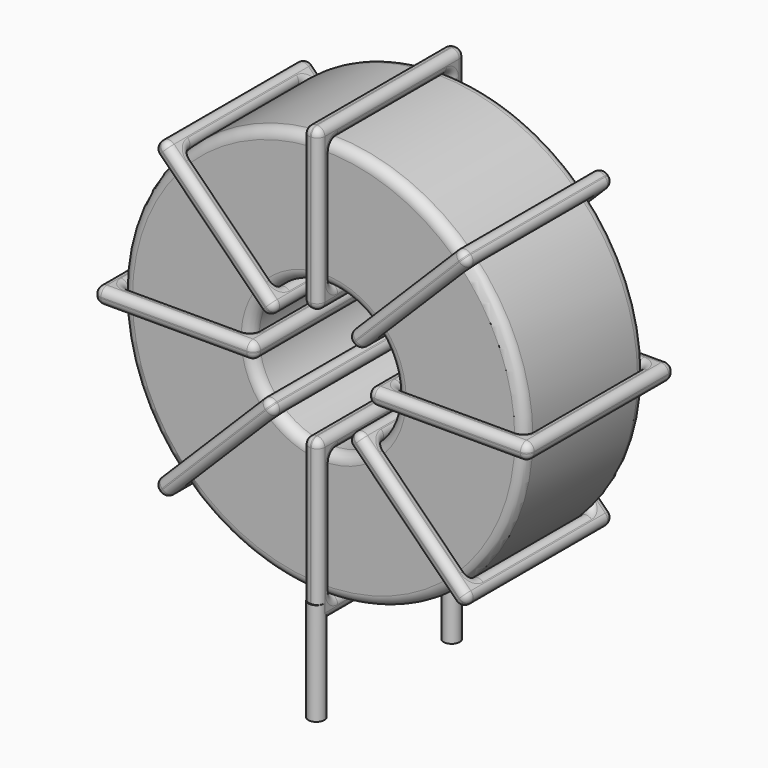
from build123d import *

# Parameters (mm, degrees)
SKETCH001_R       = 0.4
PAD001_DEPTH      = 0.8
PAD001_DEPTH_BACK = 4.3
SKETCH_R          = 10
SKETCH_R_2        = 3.6
PAD_DEPTH         = 3.75
FILLET_R          = 0.5
SKETCH003_W       = 8
SKETCH003_H       = 9.1
SKETCH003_W_2     = 6.4
SKETCH003_H_2     = 7.5
PAD002_DEPTH      = 0.4
FILLET001_R       = 0.376
SKETCH004_W       = 8
SKETCH004_H       = 9.1
SKETCH004_W_2     = 6.4
SKETCH004_H_2     = 7.5
PAD003_DEPTH      = 0.4
FILLET002_R       = 0.376
SKETCH005_W       = 8
SKETCH005_H       = 9.1
SKETCH005_W_2     = 6.4
SKETCH005_H_2     = 7.5
PAD004_DEPTH      = 0.4
FILLET003_R       = 0.376
SKETCH006_W       = 8
SKETCH006_H       = 9.1
SKETCH006_W_2     = 6.4
SKETCH006_H_2     = 7.5
PAD005_DEPTH      = 0.4
FILLET004_R       = 0.376


with BuildPart() as pad001:
    # Sketch001 → Pad001 (new body, two sides)
    with BuildSketch(Plane.XY.offset(1.3)) as pad001_sk:
        Circle(SKETCH001_R)
        with Locations((0, -8.4)):
            Circle(SKETCH001_R)
    extrude(amount=PAD001_DEPTH)
    extrude(pad001_sk.sketch, amount=-PAD001_DEPTH_BACK)


with BuildPart() as fillet_body:
    # Sketch → Pad (new body, symmetric)
    with BuildSketch(Plane.XZ.offset(4.2)):
        with Locations((0, 12.1)):
            Circle(SKETCH_R)
        with Locations((0, 12.1)):
            Circle(SKETCH_R_2, mode=Mode.SUBTRACT)
    extrude(amount=PAD_DEPTH, both=True)

    # Fillet
    fillet_edges = [fillet_body.edges().sort_by_distance(p)[0] for p in [
        (-3.6, -7.95, 12.1),
        (-10, -7.95, 12.1),
        (-10, -0.45, 12.1),
    ]]
    fillet(fillet_edges, radius=FILLET_R)


with BuildPart() as fillet001:
    # Sketch003 → Pad002 (new body, symmetric)
    with BuildSketch(Plane(origin=(0, 0.35, 12.1), x_dir=(1, 0, 0), z_dir=(0, 0, -1))):
        with Locations((-6.8, 4.55)):
            Rectangle(SKETCH003_W, SKETCH003_H)
        with Locations((-6.8, 4.55)):
            Rectangle(SKETCH003_W_2, SKETCH003_H_2, mode=Mode.SUBTRACT)
        with Locations((6.8, 4.55)):
            Rectangle(SKETCH003_W, SKETCH003_H)
        with Locations((6.8, 4.55)):
            Rectangle(SKETCH003_W_2, SKETCH003_H_2, mode=Mode.SUBTRACT)
    extrude(amount=PAD002_DEPTH, both=True)

    # Fillet001
    fillet001_edges = [fillet001.edges().sort_by_distance(p)[0] for p in [
        (-3.6, -7.95, 12.1),
        (-3.6, -0.45, 12.1),
        (-3.6, -4.2, 12.5),
        (-3.6, -4.2, 11.7),
        (-10.8, -8.75, 12.1),
        (-2.8, -8.75, 12.1),
        (-6.8, -8.75, 12.5),
        (-6.8, -8.75, 11.7),
        (-2.8, 0.35, 12.1),
        (-2.8, -4.2, 12.5),
        (-2.8, -4.2, 11.7),
        (3.6, -7.95, 12.1),
        (10, -7.95, 12.1),
        (6.8, -7.95, 12.5),
        (6.8, -7.95, 11.7),
        (10, -0.45, 12.1),
        (10, -4.2, 12.5),
        (10, -4.2, 11.7),
        (2.8, -8.75, 12.1),
        (10.8, -8.75, 12.1),
        (6.8, -8.75, 12.5),
        (6.8, -8.75, 11.7),
        (10.8, 0.35, 12.1),
        (10.8, -4.2, 12.5),
        (10.8, -4.2, 11.7),
        (-10, -7.95, 12.1),
        (-6.8, -7.95, 12.5),
        (-6.8, -7.95, 11.7),
        (3.6, -0.45, 12.1),
        (3.6, -4.2, 12.5),
        (3.6, -4.2, 11.7),
        (6.8, -0.45, 12.5),
        (6.8, -0.45, 11.7),
        (2.8, 0.35, 12.1),
        (6.8, 0.35, 12.5),
        (6.8, 0.35, 11.7),
        (2.8, -4.2, 12.5),
        (2.8, -4.2, 11.7),
        (-10.8, 0.35, 12.1),
        (-6.8, 0.35, 12.5),
        (-6.8, 0.35, 11.7),
        (-10.8, -4.2, 12.5),
        (-10.8, -4.2, 11.7),
        (-10, -0.45, 12.1),
        (-10, -4.2, 12.5),
        (-10, -4.2, 11.7),
        (-6.8, -0.45, 12.5),
        (-6.8, -0.45, 11.7),
    ]]
    fillet(fillet001_edges, radius=FILLET001_R)


with BuildPart() as fillet002:
    # Sketch004 → Pad003 (new body, symmetric)
    with BuildSketch(Plane(origin=(0, 0.35, 12.1), x_dir=(0.707108, 0, 0.707106), z_dir=(0.707106, 0, -0.707108))):
        with Locations((-6.8, 4.55)):
            Rectangle(SKETCH004_W, SKETCH004_H)
        with Locations((-6.8, 4.55)):
            Rectangle(SKETCH004_W_2, SKETCH004_H_2, mode=Mode.SUBTRACT)
        with Locations((6.8, 4.55)):
            Rectangle(SKETCH004_W, SKETCH004_H)
        with Locations((6.8, 4.55)):
            Rectangle(SKETCH004_W_2, SKETCH004_H_2, mode=Mode.SUBTRACT)
    extrude(amount=PAD003_DEPTH, both=True)

    # Fillet002
    fillet002_edges = [fillet002.edges().sort_by_distance(p)[0] for p in [
        (-2.545587, -7.95, 9.554419),
        (-2.545587, -0.45, 9.554419),
        (-2.82843, -4.2, 9.837262),
        (-2.262745, -4.2, 9.271575),
        (-7.636762, -8.75, 4.463256),
        (-1.979901, -8.75, 10.120103),
        (-5.091174, -8.75, 7.574522),
        (-4.525489, -8.75, 7.008836),
        (-1.979901, 0.35, 10.120103),
        (-2.262744, -4.2, 10.402946),
        (-1.697059, -4.2, 9.83726),
        (2.545587, -7.95, 14.645581),
        (7.071076, -7.95, 19.17106),
        (4.525489, -7.95, 17.191164),
        (5.091174, -7.95, 16.625478),
        (7.071076, -0.45, 19.17106),
        (6.788234, -4.2, 19.453903),
        (7.353918, -4.2, 18.888217),
        (1.979901, -8.75, 14.079897),
        (7.636762, -8.75, 19.736744),
        (4.525489, -8.75, 17.191164),
        (5.091174, -8.75, 16.625478),
        (7.636762, 0.35, 19.736744),
        (7.35392, -4.2, 20.019587),
        (7.919604, -4.2, 19.453901),
        (-7.071076, -7.95, 5.02894),
        (-5.091174, -7.95, 7.574522),
        (-4.525489, -7.95, 7.008836),
        (2.545587, -0.45, 14.645581),
        (2.262745, -4.2, 14.928425),
        (2.82843, -4.2, 14.362738),
        (4.525489, -0.45, 17.191164),
        (5.091174, -0.45, 16.625478),
        (1.979901, 0.35, 14.079897),
        (4.525489, 0.35, 17.191164),
        (5.091174, 0.35, 16.625478),
        (1.697059, -4.2, 14.36274),
        (2.262744, -4.2, 13.797054),
        (-7.636762, 0.35, 4.463256),
        (-5.091174, 0.35, 7.574522),
        (-4.525489, 0.35, 7.008836),
        (-7.919604, -4.2, 4.746099),
        (-7.35392, -4.2, 4.180413),
        (-7.071076, -0.45, 5.02894),
        (-7.353918, -4.2, 5.311783),
        (-6.788234, -4.2, 4.746097),
        (-5.091174, -0.45, 7.574522),
        (-4.525489, -0.45, 7.008836),
    ]]
    fillet(fillet002_edges, radius=FILLET002_R)


with BuildPart() as fillet003:
    # Sketch005 → Pad004 (new body, symmetric)
    with BuildSketch(Plane(origin=(0, 0.35, 12.1), x_dir=(0.707108, 0, -0.707106), z_dir=(-0.707106, 0, -0.707108))):
        with Locations((-6.8, 4.55)):
            Rectangle(SKETCH005_W, SKETCH005_H)
        with Locations((-6.8, 4.55)):
            Rectangle(SKETCH005_W_2, SKETCH005_H_2, mode=Mode.SUBTRACT)
        with Locations((6.8, 4.55)):
            Rectangle(SKETCH005_W, SKETCH005_H)
        with Locations((6.8, 4.55)):
            Rectangle(SKETCH005_W_2, SKETCH005_H_2, mode=Mode.SUBTRACT)
    extrude(amount=PAD004_DEPTH, both=True)

    # Fillet003
    fillet003_edges = [fillet003.edges().sort_by_distance(p)[0] for p in [
        (-7.071076, -7.95, 19.17106),
        (-2.545587, -0.45, 14.645581),
        (-4.525489, -0.45, 17.191164),
        (-5.091174, -0.45, 16.625478),
        (-7.636762, -8.75, 19.736744),
        (-7.636762, 0.35, 19.736744),
        (-7.35392, -4.2, 20.019587),
        (-7.919604, -4.2, 19.453901),
        (-1.979901, -8.75, 14.079897),
        (-4.525489, 0.35, 17.191164),
        (-5.091174, 0.35, 16.625478),
        (2.545587, -7.95, 9.554419),
        (7.071076, -7.95, 5.02894),
        (5.091174, -7.95, 7.574522),
        (4.525489, -7.95, 7.008836),
        (7.071076, -0.45, 5.02894),
        (7.353918, -4.2, 5.311783),
        (6.788234, -4.2, 4.746097),
        (1.979901, 0.35, 10.120103),
        (1.979901, -8.75, 10.120103),
        (2.262744, -4.2, 10.402946),
        (1.697059, -4.2, 9.83726),
        (7.636762, 0.35, 4.463256),
        (5.091174, 0.35, 7.574522),
        (4.525489, 0.35, 7.008836),
        (-7.071076, -0.45, 19.17106),
        (-6.788234, -4.2, 19.453903),
        (-7.353918, -4.2, 18.888217),
        (2.545587, -0.45, 9.554419),
        (2.82843, -4.2, 9.837262),
        (2.262745, -4.2, 9.271575),
        (5.091174, -0.45, 7.574522),
        (4.525489, -0.45, 7.008836),
        (7.636762, -8.75, 4.463256),
        (7.919604, -4.2, 4.746099),
        (7.35392, -4.2, 4.180413),
        (5.091174, -8.75, 7.574522),
        (4.525489, -8.75, 7.008836),
        (-1.979901, 0.35, 14.079897),
        (-1.697059, -4.2, 14.36274),
        (-2.262744, -4.2, 13.797054),
        (-4.525489, -8.75, 17.191164),
        (-5.091174, -8.75, 16.625478),
        (-2.545587, -7.95, 14.645581),
        (-4.525489, -7.95, 17.191164),
        (-5.091174, -7.95, 16.625478),
        (-2.262745, -4.2, 14.928425),
        (-2.82843, -4.2, 14.362738),
    ]]
    fillet(fillet003_edges, radius=FILLET003_R)


with BuildPart() as fillet004:
    # Sketch006 → Pad005 (new body, symmetric)
    with BuildSketch(Plane(origin=(0, 0.35, 12.1), x_dir=(0, 0, 1), z_dir=(1, 0, 0))):
        with Locations((-6.8, 4.55)):
            Rectangle(SKETCH006_W, SKETCH006_H)
        with Locations((-6.8, 4.55)):
            Rectangle(SKETCH006_W_2, SKETCH006_H_2, mode=Mode.SUBTRACT)
        with Locations((6.8, 4.55)):
            Rectangle(SKETCH006_W, SKETCH006_H)
        with Locations((6.8, 4.55)):
            Rectangle(SKETCH006_W_2, SKETCH006_H_2, mode=Mode.SUBTRACT)
    extrude(amount=PAD005_DEPTH, both=True)

    # Fillet004
    fillet004_edges = [fillet004.edges().sort_by_distance(p)[0] for p in [
        (0, -7.95, 22.1),
        (0, -0.45, 22.1),
        (-0.4, -4.2, 22.1),
        (0.4, -4.2, 22.1),
        (0, 0.35, 22.9),
        (0, 0.35, 14.9),
        (-0.4, 0.35, 18.9),
        (0.4, 0.35, 18.9),
        (0, -8.75, 14.9),
        (-0.4, -4.2, 14.9),
        (0.4, -4.2, 14.9),
        (0, -7.95, 2.1),
        (0, -7.95, 8.5),
        (-0.4, -7.95, 5.3),
        (0.4, -7.95, 5.3),
        (0, -0.45, 8.5),
        (-0.4, -4.2, 8.5),
        (0.4, -4.2, 8.5),
        (0, 0.35, 9.3),
        (0, 0.35, 1.3),
        (-0.4, 0.35, 5.3),
        (0.4, 0.35, 5.3),
        (0, -8.75, 1.3),
        (-0.4, -4.2, 1.3),
        (0.4, -4.2, 1.3),
        (0, -7.95, 15.7),
        (-0.4, -7.95, 18.9),
        (0.4, -7.95, 18.9),
        (0, -0.45, 2.1),
        (-0.4, -4.2, 2.1),
        (0.4, -4.2, 2.1),
        (-0.4, -0.45, 5.3),
        (0.4, -0.45, 5.3),
        (0, -8.75, 9.3),
        (-0.4, -8.75, 5.3),
        (0.4, -8.75, 5.3),
        (-0.4, -4.2, 9.3),
        (0.4, -4.2, 9.3),
        (0, -8.75, 22.9),
        (-0.4, -8.75, 18.9),
        (0.4, -8.75, 18.9),
        (-0.4, -4.2, 22.9),
        (0.4, -4.2, 22.9),
        (0, -0.45, 15.7),
        (-0.4, -4.2, 15.7),
        (0.4, -4.2, 15.7),
        (-0.4, -0.45, 18.9),
        (0.4, -0.45, 18.9),
    ]]
    fillet(fillet004_edges, radius=FILLET004_R)


solid = Compound([pad001.part, fillet_body.part, fillet001.part, fillet002.part, fillet003.part, fillet004.part])
